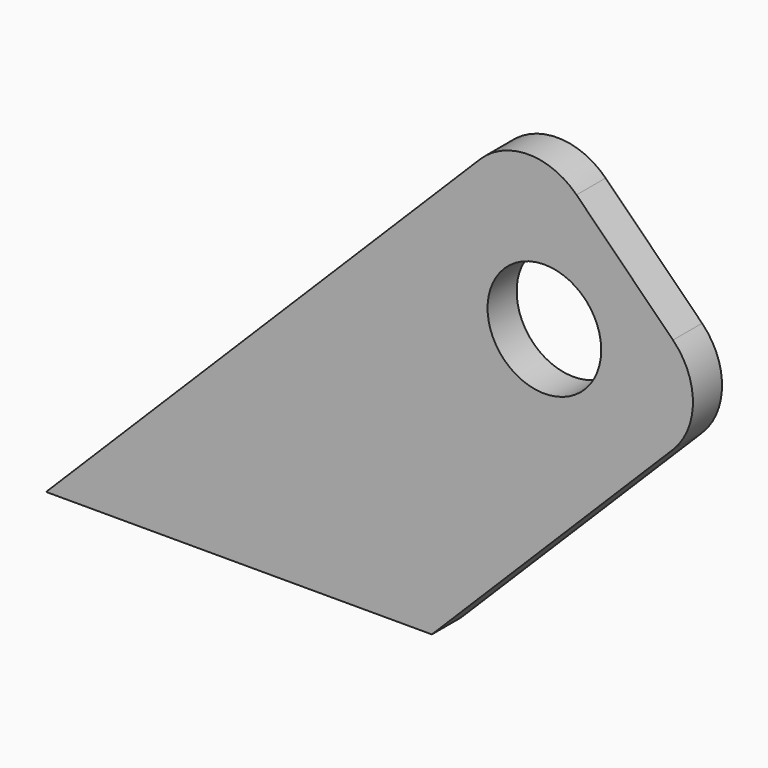
from build123d import *

# Parameters (mm, degrees)
F0_R     = 12.5
F1_DEPTH = 8
F2_R     = 15
F3_R     = 15


with BuildPart() as f1:
    # F0 (on Front) → F1 (new body)
    with BuildSketch(Plane.XZ):
        Polygon((106.066017, 106.066017), (0, 0), (84.852814, 0), (148.492424, 63.63961), align=None)
        with Locations((109.601551, 67.175144)):
            Circle(F0_R, mode=Mode.SUBTRACT)
    extrude(amount=F1_DEPTH)

    # F2
    f2_edges = [f1.edges().sort_by_distance(p)[0] for p in [
        (106.066017, -4, 106.066017),
    ]]
    fillet(f2_edges, radius=F2_R)

    # F3
    f3_edges = [f1.edges().sort_by_distance(p)[0] for p in [
        (148.492424, -4, 63.63961),
    ]]
    fillet(f3_edges, radius=F3_R)


solid = f1.part
